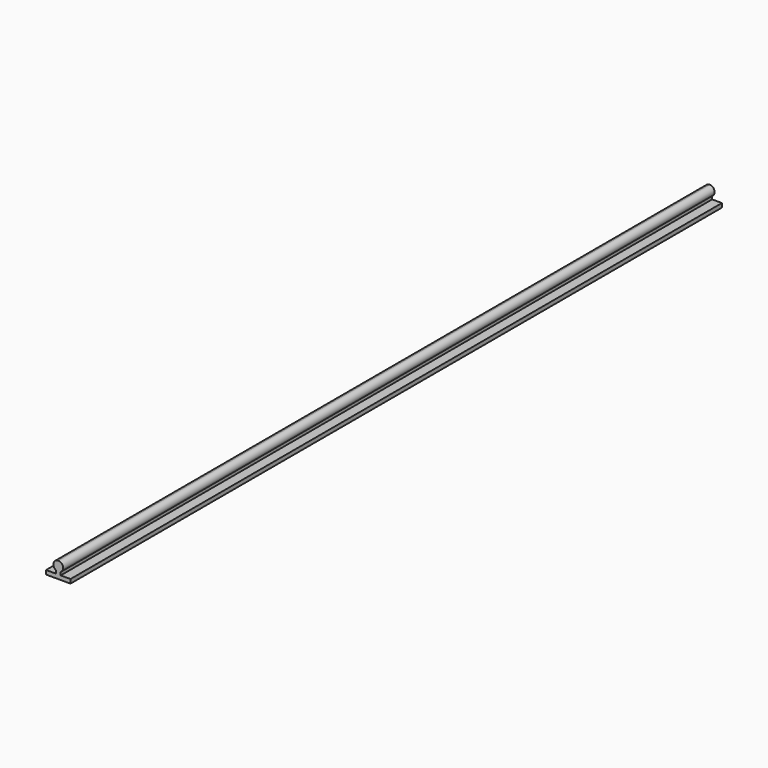
from build123d import *

# Parameters (mm, degrees)
F1_DEPTH = 1000


with BuildPart() as f1:
    # F0 (on Front) → F1 (new body)
    with BuildSketch(Plane.XZ):
        with BuildLine():
            Line((-15, 0), (0, 0))
            Line((0, 0), (15, 0))
            Line((15, 0), (15, 5))
            Line((15, 5), (3, 5))
            Line((3, 5), (3, 8.803848))
            ThreePointArc((3, 8.803848), (5.795555, 15.552914), (0, 20))
            ThreePointArc((0, 20), (-5.795555, 15.552914), (-3, 8.803848))
            Line((-3, 8.803848), (-3, 5))
            Line((-3, 5), (-15, 5))
            Line((-15, 5), (-15, 0))
        make_face()
    extrude(amount=F1_DEPTH)


solid = f1.part
